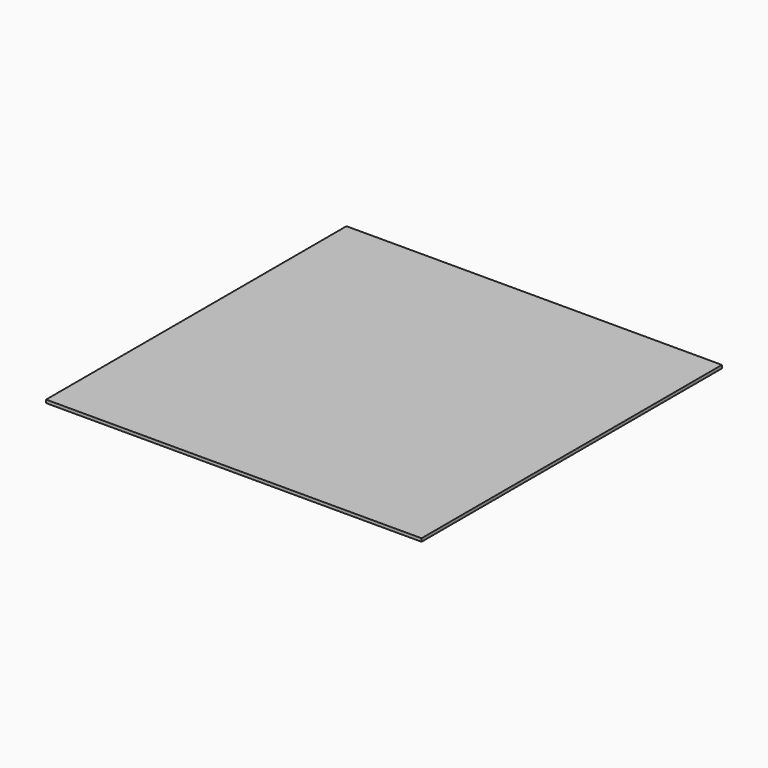
from build123d import *

# Parameters (mm, degrees)
SKETCH_W  = 1524
SKETCH_H  = 1524
PAD_DEPTH = 12.7


with BuildPart() as part:
    # Sketch → Pad (new body)
    with BuildSketch(Plane.XY):
        with Locations((762, 762)):
            Rectangle(SKETCH_W, SKETCH_H)
    extrude(amount=PAD_DEPTH)


solid = part.part
